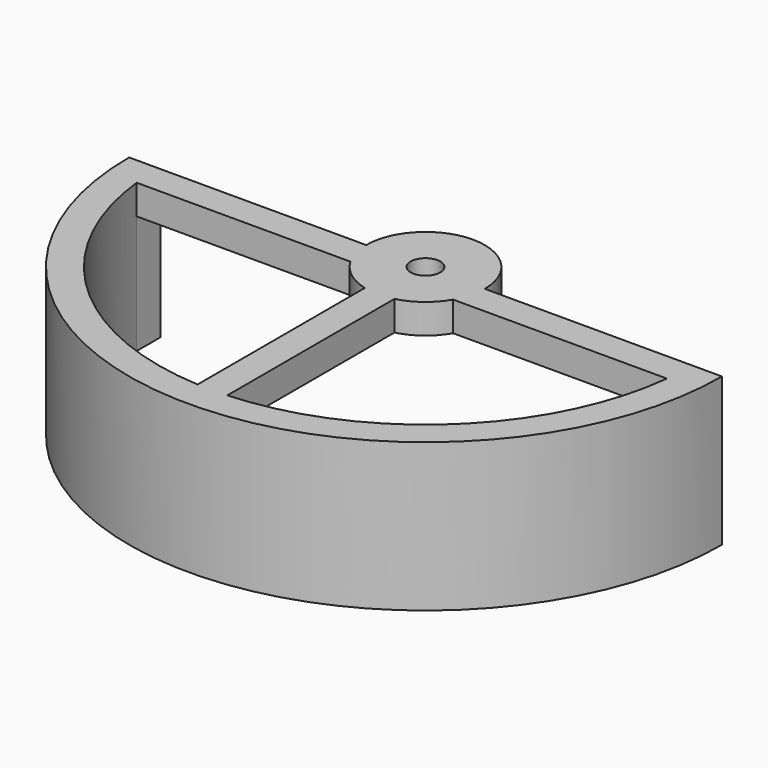
from build123d import *

# Parameters (mm, degrees)
F0_R      = 20
F1_DEPTH  = 10
F3_DEPTH  = 25
F4_DEPTH  = 25
F6_DEPTH  = 25
F7_W      = 35.777088
F7_H      = 2
F8_DEPTH  = 8
F9_W      = 2
F9_H      = 17.974984
F10_DEPTH = 2
F11_R     = 4
F12_DEPTH = 2
F13_R     = 1
F14_DEPTH = 25


with BuildPart() as f1:
    # F0 (on Top) → F1 (new body)
    with BuildSketch(Plane.XY):
        Circle(F0_R)
    extrude(amount=F1_DEPTH)

    # F2 (on face) → F3 (cut)
    with BuildSketch(Plane.XY.offset(10)):
        with BuildLine():
            Line((-20, 0), (0, 0))
            Line((0, 0), (20, 0))
            ThreePointArc((20, 0), (0, 20), (-20, 0))
        make_face()
    extrude(amount=-F3_DEPTH, mode=Mode.SUBTRACT)

    # F2 (on face) → F4 (cut)
    with BuildSketch(Plane.XY.offset(10)):
        with BuildLine():
            Line((-20, 0), (0, 0))
            Line((0, 0), (20, 0))
            ThreePointArc((20, 0), (0, 20), (-20, 0))
        make_face()
    extrude(amount=-F4_DEPTH, mode=Mode.SUBTRACT)

    # F5 (on face) → F6 (cut)
    with BuildSketch(Plane.XY.offset(10)):
        with BuildLine():
            ThreePointArc((-17.888544, -2), (0, -18), (17.888544, -2))
            Line((17.888544, -2), (-17.888544, -2))
        make_face()
    extrude(amount=-F6_DEPTH, mode=Mode.SUBTRACT)

    # F7 (on face) → F8 (cut)
    with BuildSketch(Plane(origin=(0, 0, 0), x_dir=(1, 0, 0), z_dir=(0, 0, -1))):
        with Locations((0, 1)):
            Rectangle(F7_W, F7_H)
    extrude(amount=-F8_DEPTH, mode=Mode.SUBTRACT)

    # F9 (on face) → F10 (join)
    with BuildSketch(Plane.XY.offset(10)):
        with Locations((0, -10.987492)):
            Rectangle(F9_W, F9_H)
    extrude(amount=-F10_DEPTH)

    # F11 (on face) → F12 (join)
    with BuildSketch(Plane.XY.offset(10)):
        Circle(F11_R)
    extrude(amount=-F12_DEPTH)

    # F13 (on face) → F14 (cut)
    with BuildSketch(Plane.XY.offset(10)):
        Circle(F13_R)
    extrude(amount=-F14_DEPTH, mode=Mode.SUBTRACT)


solid = f1.part
